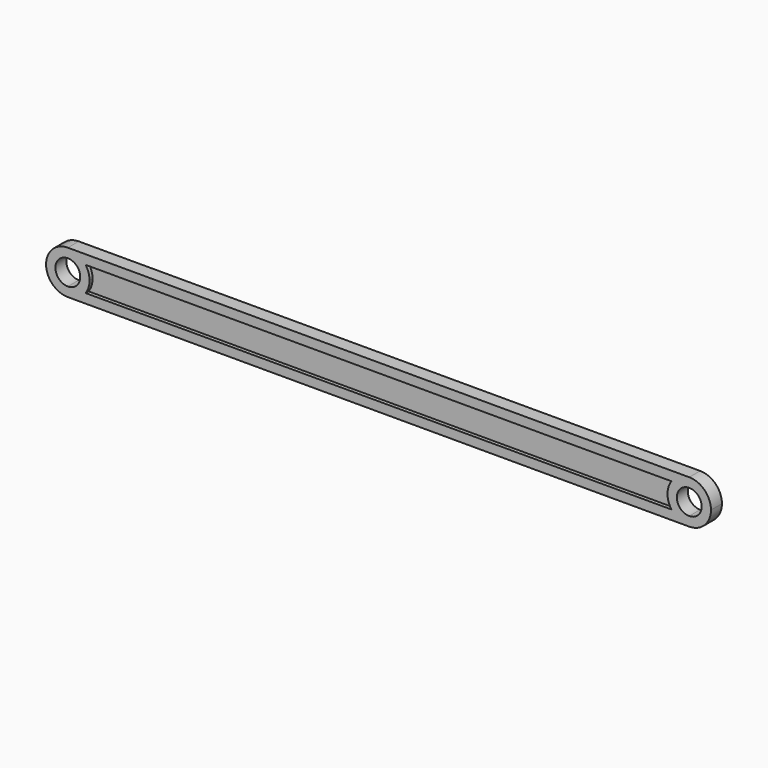
from build123d import *

# Parameters (mm, degrees)
F1_DEPTH = 1.1
F3_DEPTH = 0.3
F4_DEPTH = 0.3


with BuildPart() as f1:
    # F0 (on Front) → F1 (new body)
    with BuildSketch(Plane.XZ):
        with BuildLine():
            ThreePointArc((1.4361406616, -1), (0.8100925873, -1.5512092057), (0, -1.75))
            Line((0, -1.75), (25, -1.75))
            Line((25, -1.75), (25, -1))
            Line((25, -1), (1.4361406616, -1))
        make_face()
        with BuildLine():
            Line((25, -1), (25, -1.75))
            Line((25, -1.75), (50, -1.75))
            ThreePointArc((50, -1.75), (49.1899074127, -1.5512092057), (48.5638593384, -1))
            Line((48.5638593384, -1), (25, -1))
        make_face()
        with BuildLine():
            Line((48.5638593384, 1), (25, 1))
            Line((25, 1), (25, -1))
            Line((25, -1), (48.5638593384, -1))
            ThreePointArc((48.5638593384, -1), (48.25, 0), (48.5638593384, 1))
        make_face()
        with BuildLine():
            Line((50, 1.75), (25, 1.75))
            Line((25, 1.75), (25, 1))
            Line((25, 1), (48.5638593384, 1))
            ThreePointArc((48.5638593384, 1), (49.1899074127, 1.5512092057), (50, 1.75))
        make_face()
        with BuildLine():
            Line((50, 1), (48.5638593384, 1))
            ThreePointArc((48.5638593384, 1), (48.25, 0), (48.5638593384, -1))
            Line((48.5638593384, -1), (50, -1))
            ThreePointArc((50, -1), (49, 0), (50, 1))
        make_face()
        with BuildLine():
            ThreePointArc((51.75, 0), (51.2374368671, 1.2374368671), (50, 1.75))
            Line((50, 1.75), (50, 1))
            ThreePointArc((50, 1), (50.7071067812, 0.7071067812), (51, 0))
            ThreePointArc((51, 0), (50.7071067812, -0.7071067812), (50, -1))
            Line((50, -1), (50, -1.75))
            ThreePointArc((50, -1.75), (51.2374368671, -1.2374368671), (51.75, 0))
        make_face()
        with BuildLine():
            ThreePointArc((0, -1), (-1, 0), (0, 1))
            Line((0, 1), (0, 1.75))
            ThreePointArc((0, 1.75), (-1.75, 0), (0, -1.75))
            Line((0, -1.75), (0, -1))
        make_face()
        with BuildLine():
            ThreePointArc((0, 1), (0.7071067812, 0.7071067812), (1, 0))
            ThreePointArc((1, 0), (0.7071067812, -0.7071067812), (0, -1))
            Line((0, -1), (1.4361406616, -1))
            ThreePointArc((1.4361406616, -1), (1.6696925103, -0.5240485866), (1.75, 0))
            ThreePointArc((1.75, 0), (1.6696925103, 0.5240485866), (1.4361406616, 1))
            Line((1.4361406616, 1), (0, 1))
        make_face()
        with BuildLine():
            ThreePointArc((48.5638593384, -1), (49.1899074127, -1.5512092057), (50, -1.75))
            Line((50, -1.75), (50, -1))
            Line((50, -1), (48.5638593384, -1))
        make_face()
        with BuildLine():
            Line((50, 1), (50, 1.75))
            ThreePointArc((50, 1.75), (49.1899074127, 1.5512092057), (48.5638593384, 1))
            Line((48.5638593384, 1), (50, 1))
        make_face()
        with BuildLine():
            Line((25, 1), (1.4361406616, 1))
            ThreePointArc((1.4361406616, 1), (1.6696925103, 0.5240485866), (1.75, 0))
            ThreePointArc((1.75, 0), (1.6696925103, -0.5240485866), (1.4361406616, -1))
            Line((1.4361406616, -1), (25, -1))
            Line((25, -1), (25, 1))
        make_face()
        with BuildLine():
            Line((25, 1.75), (0, 1.75))
            ThreePointArc((0, 1.75), (0.8100925873, 1.5512092057), (1.4361406616, 1))
            Line((1.4361406616, 1), (25, 1))
            Line((25, 1), (25, 1.75))
        make_face()
        with BuildLine():
            Line((1.4361406616, -1), (0, -1))
            Line((0, -1), (0, -1.75))
            ThreePointArc((0, -1.75), (0.8100925873, -1.5512092057), (1.4361406616, -1))
        make_face()
        with BuildLine():
            Line((0, 1.75), (0, 1))
            Line((0, 1), (1.4361406616, 1))
            ThreePointArc((1.4361406616, 1), (0.8100925873, 1.5512092057), (0, 1.75))
        make_face()
    extrude(amount=F1_DEPTH)

    # F2 (on face) → F3 (cut)
    with BuildSketch(Plane.XZ.offset(1.1)):
        with BuildLine():
            ThreePointArc((48.5638593384, -1), (48.25, 0), (48.5638593384, 1))
            Line((48.5638593384, 1), (1.4361406616, 1))
            ThreePointArc((1.4361406616, 1), (1.6696925103, 0.5240485866), (1.75, 0))
            ThreePointArc((1.75, 0), (1.6696925103, -0.5240485866), (1.4361406616, -1))
            Line((1.4361406616, -1), (48.5638593384, -1))
        make_face()
    extrude(amount=-F3_DEPTH, mode=Mode.SUBTRACT)

    # F0 (on Front) → F4 (cut)
    with BuildSketch(Plane.XZ):
        with BuildLine():
            Line((48.5638593384, 1), (25, 1))
            Line((25, 1), (25, -1))
            Line((25, -1), (48.5638593384, -1))
            ThreePointArc((48.5638593384, -1), (48.25, 0), (48.5638593384, 1))
        make_face()
        with BuildLine():
            Line((25, 1), (1.4361406616, 1))
            ThreePointArc((1.4361406616, 1), (1.6696925103, 0.5240485866), (1.75, 0))
            ThreePointArc((1.75, 0), (1.6696925103, -0.5240485866), (1.4361406616, -1))
            Line((1.4361406616, -1), (25, -1))
            Line((25, -1), (25, 1))
        make_face()
    extrude(amount=F4_DEPTH, mode=Mode.SUBTRACT)


solid = f1.part
